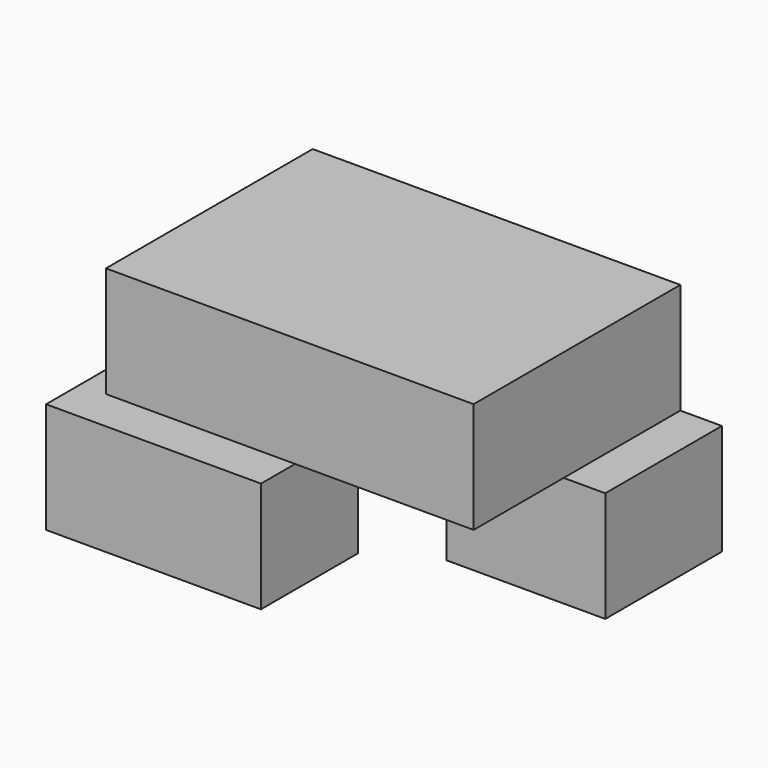
from build123d import *

# Parameters (mm, degrees)
F0_W     = 36.39913
F0_H     = 33.459801
F1_DEPTH = 25.4
F2_W     = 49.317076
F2_H     = 27.848236
F3_DEPTH = 25.4
F5_W     = 84.384808
F5_H     = 59.302814
F6_DEPTH = 25.4


with BuildPart() as f1:
    # F0 (on Top) → F1 (new body)
    with BuildSketch(Plane.XY):
        with Locations((18.199565, -16.7299)):
            Rectangle(F0_W, F0_H)
    extrude(amount=F1_DEPTH)


with BuildPart() as f3:
    # F2 (on Top) → F3 (new body)
    with BuildSketch(Plane.XY):
        with Locations((-38.781524, -55.167761)):
            Rectangle(F2_W, F2_H)
    extrude(amount=F3_DEPTH)


with BuildPart() as f6:
    # F5 (on offset) → F6 (new body)
    with BuildSketch(Plane.XY.offset(25.4)):
        with Locations((-15.340331, -29.651407)):
            Rectangle(F5_W, F5_H)
    extrude(amount=F6_DEPTH)


solid = Compound([f1.part, f3.part, f6.part])
